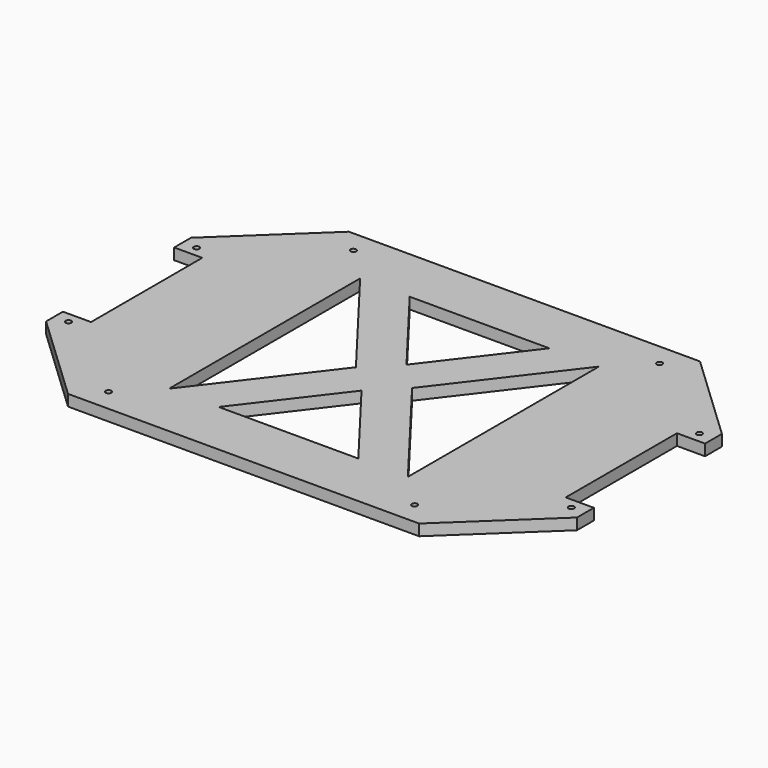
from build123d import *

# Parameters (mm, degrees)
F0_W     = 20
F0_H     = 15
F0_R     = 2
F1_DEPTH = 4


with BuildPart() as f1:
    # F0 (on Top) → F1 (new body, symmetric)
    with BuildSketch(Plane.XY):
        with Locations((-179, 57)):
            Rectangle(F0_W, F0_H)
        with Locations((-179, 57)):
            Circle(F0_R, mode=Mode.SUBTRACT)
        with Locations((-179, -57)):
            Rectangle(F0_W, F0_H)
        with Locations((-179, -57)):
            Circle(F0_R, mode=Mode.SUBTRACT)
        Polygon((0, 125), (-125, 125), (-125, 64.5), (-125, 0), (-85, 0), (-85, 85), (-20, 0), (0, 0), (0, 20), (-49.7058823529, 85), (0, 85), align=None)
        with Locations((-109, 109)):
            Circle(F0_R, mode=Mode.SUBTRACT)
        Polygon((-85, 0), (-125, 0), (-125, -64.5), (-125, -125), (0, -125), (0, -85), (-49.7058823529, -85), (0, -20), (0, 0), (-20, 0), (-85, -85), align=None)
        with Locations((-109, -109)):
            Circle(F0_R, mode=Mode.SUBTRACT)
        Polygon((-125, 0), (-125, 64.5), (-169, 64.5), (-169, 49.5), (-169, 0), align=None)
        Polygon((-125, -64.5), (-125, 0), (-169, 0), (-169, -49.5), (-169, -64.5), align=None)
        Polygon((125, 125), (0, 125), (0, 85), (49.7058823529, 85), (0, 20), (0, 0), (20, 0), (85, 85), (85, 0), (125, 0), (125, 64.5), align=None)
        with Locations((109, 109)):
            Circle(F0_R, mode=Mode.SUBTRACT)
        Polygon((125, -64.5), (125, 0), (85, 0), (85, -85), (20, 0), (0, 0), (0, -20), (49.7058823529, -85), (0, -85), (0, -125), (125, -125), align=None)
        with Locations((109, -109)):
            Circle(F0_R, mode=Mode.SUBTRACT)
        Polygon((169, 0), (125, 0), (125, -64.5), (169, -64.5), (169, -49.5), align=None)
        Polygon((169, 64.5), (125, 64.5), (125, 0), (169, 0), (169, 49.5), align=None)
        with Locations((179, 57)):
            Rectangle(F0_W, F0_H)
        with Locations((179, 57)):
            Circle(F0_R, mode=Mode.SUBTRACT)
        with Locations((179, -57)):
            Rectangle(F0_W, F0_H)
        with Locations((179, -57)):
            Circle(F0_R, mode=Mode.SUBTRACT)
        Polygon((-125, 64.5), (-125, 125), (-189, 64.5), (-169, 64.5), align=None)
        Polygon((-125, -125), (-125, -64.5), (-169, -64.5), (-189, -64.5), align=None)
        Polygon((189, 64.5), (125, 125), (125, 64.5), (169, 64.5), align=None)
        Polygon((169, -64.5), (125, -64.5), (125, -125), (189, -64.5), align=None)
    extrude(amount=F1_DEPTH, both=True)


solid = f1.part
